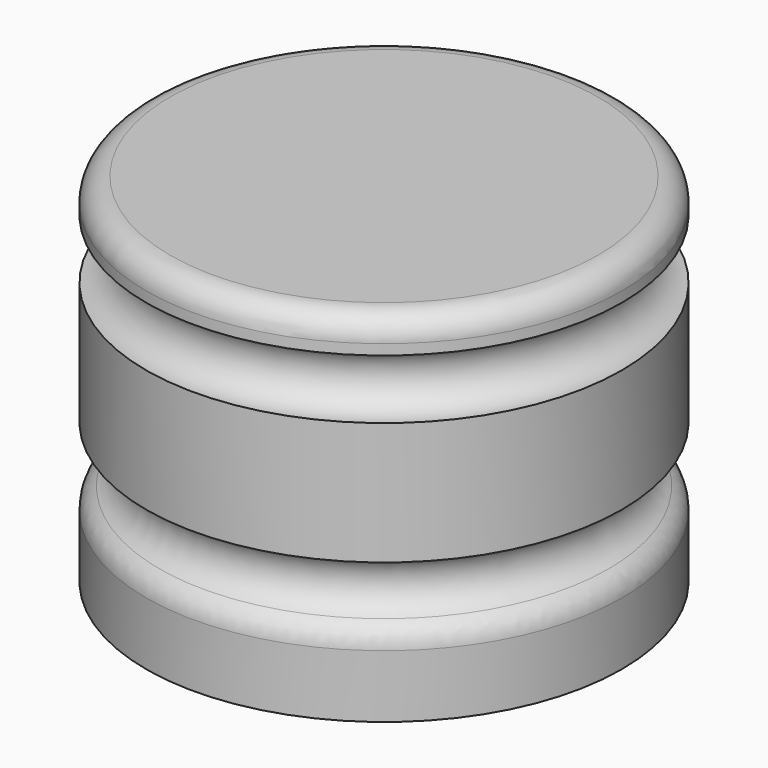
from build123d import *

# Parameters (mm, degrees)
F2_R = 5.08


with BuildPart() as f1:
    # F0 (on Front) → F1 (revolve)
    with BuildSketch(Plane.XZ):
        with BuildLine():
            Line((0.9608349383, 104.0793796897), (-49.8391650617, 104.0793796897))
            Line((-49.8391650617, 104.0793796897), (-49.8391650617, 27.8793796897))
            Line((-49.8391650617, 27.8793796897), (0.9608349383, 27.8793796897))
            Line((0.9608349383, 27.8793796897), (0.9608349383, 45.1749110758))
            ThreePointArc((0.9608349383, 45.1749110758), (-5.3891650617, 51.5249110758), (0.9608349383, 57.8749110758))
            Line((0.9608349383, 57.8749110758), (0.9608349383, 84.0856986284))
            ThreePointArc((0.9608349383, 84.0856986284), (-5.3891650617, 90.4356986284), (0.9608349383, 96.7856986284))
            Line((0.9608349383, 96.7856986284), (0.9608349383, 104.0793796897))
        make_face()
    revolve(axis=Axis((-49.8391650617, 0, 65.9793796897), (0, 0, -1)))

    # F2
    f2_edges = [f1.edges().sort_by_distance(p)[0] for p in [
        (-100.639165, 0, 104.07938),
        (-100.639165, 0, 45.174911),
    ]]
    fillet(f2_edges, radius=F2_R)


solid = f1.part
